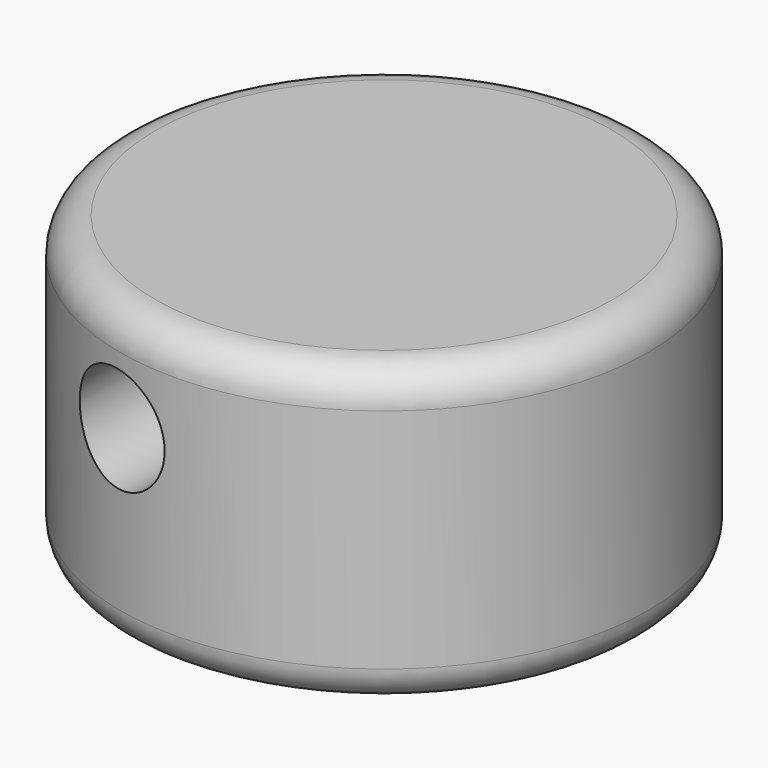
from build123d import *

# Parameters (mm, degrees)
F0_R     = 22.545516
F1_DEPTH = 25.4
F3_D     = 9
F4_R     = 3


with BuildPart() as f1:
    # F0 (on Top) → F1 (new body)
    with BuildSketch(Plane.XY):
        with Locations((-23.601482, 23.307687)):
            Circle(F0_R)
    extrude(amount=F1_DEPTH)

    # F3 (through all)
    with Locations(Plane.XZ):
        with Locations((-28.820381, 16.578948)):
            Hole(F3_D / 2)

    # F4
    f4_edges = [f1.edges().sort_by_distance(p)[0] for p in [
        (-46.146997, 23.307687, 25.4),
        (-46.146997, 23.307687, 0),
    ]]
    fillet(f4_edges, radius=F4_R)


solid = f1.part
